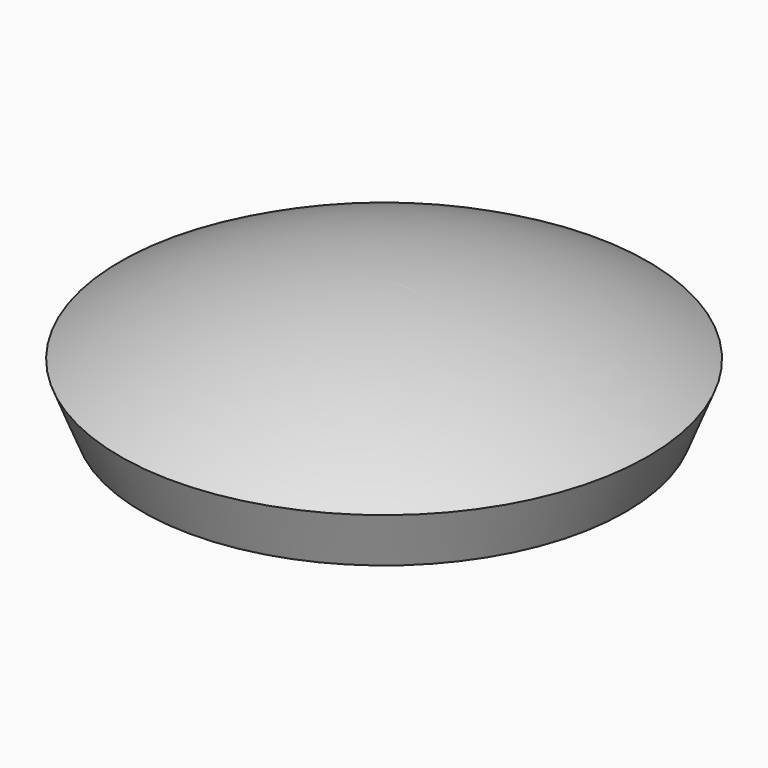
from build123d import *

# Parameters (mm, degrees)
F0_W     = 81
F0_H     = 11
F3_DEPTH = 12


with BuildPart() as f2:
    # F1 (on Front) → F2 (revolve)
    with BuildSketch(Plane.XZ):
        with BuildLine():
            Line((0, 20.9), (0, 0))
            Line((0, 0), (41.5, 0))
            Line((41.5, 0), (45.19427, 9.235676))
            ThreePointArc((45.19427, 9.235676), (23.337623, 17.93691), (0, 20.9))
        make_face()
        with BuildLine():
            Line((45.19427, 9.235676), (41.5, 0))
            Line((41.5, 0), (43.1, 0))
            Line((43.1, 0), (47.1, 10))
            ThreePointArc((47.1, 10), (24.365242, 19.32183), (0, 22.5))
            Line((0, 22.5), (0, 20.9))
            ThreePointArc((0, 20.9), (23.337623, 17.93691), (45.19427, 9.235676))
        make_face()
    revolve(axis=Axis((0, 0, 11.370487), (0, 0, -1)))

    # F0 (on Top) → F3 (cut)
    with BuildSketch(Plane.XY):
        Rectangle(F0_W, F0_H)
    extrude(amount=F3_DEPTH, mode=Mode.SUBTRACT)


solid = f2.part
